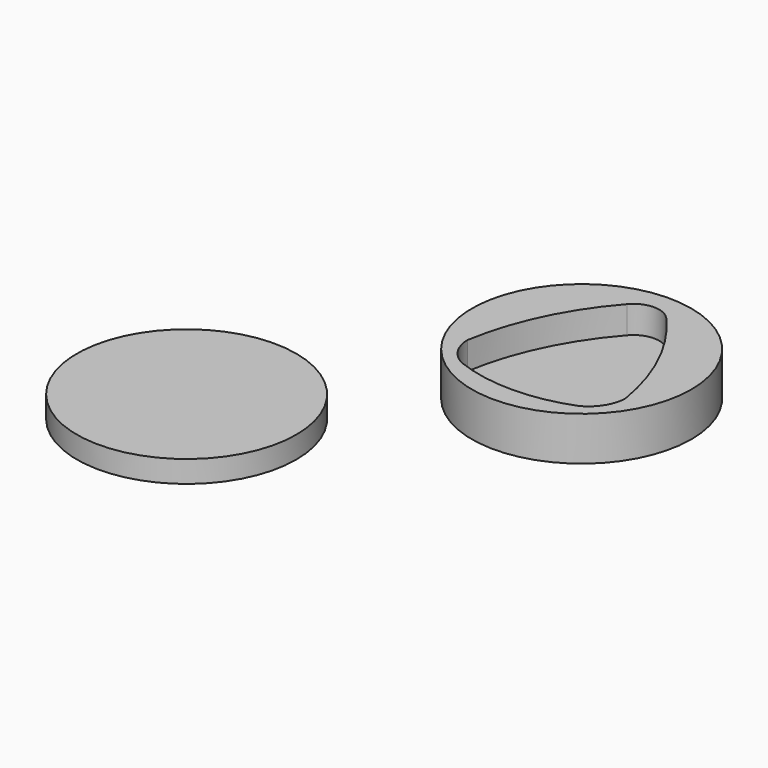
from build123d import *

# Parameters (mm, degrees)
SKETCH003_R  = 20
PAD003_DEPTH = 4
PAD001_DEPTH = 5
SKETCH002_R  = 20
PAD002_DEPTH = 8


with BuildPart() as up:
    # Sketch003 → Pad003 (new body)
    with BuildSketch(Plane.XY):
        Circle(SKETCH003_R)
    extrude(amount=PAD003_DEPTH)


with BuildPart() as up_1:
    # Body003 placement: moved
    add(up.part.moved(Location((-20, -20, -8))))


with BuildPart() as body001:
    # Sketch001 → Pad001 (new body)
    with BuildSketch(Plane.XY):
        with BuildLine():
            ThreePointArc((3.6, 14.8), (0, 16.48615), (-3.6, 14.8))
            ThreePointArc((-3.6, 14.8), (-10.607062, 4.16124), (-14.4, -8))
            ThreePointArc((-14.4, -8), (-13.345547, -11.535513), (-10.6, -14))
            ThreePointArc((-10.6, -14), (0, -15.982852), (10.6, -14))
            ThreePointArc((10.6, -14), (13.345547, -11.535513), (14.4, -8))
            ThreePointArc((14.4, -8), (10.607062, 4.16124), (3.6, 14.8))
        make_face()
    extrude(amount=PAD001_DEPTH)


with BuildPart() as body001_1:
    # Body001 placement: moved
    add(body001.part.moved(Location((0, 0, -5))))


with BuildPart() as fusion:
    # Sketch002 → Pad002 (new body)
    with BuildSketch(Plane.XY):
        Circle(SKETCH002_R)
    extrude(amount=PAD002_DEPTH)


with BuildPart() as fusion_1:
    # Body002 placement: moved
    add(fusion.part.moved(Location((0, 0, -8))))

    # Cut: cut Body001
    add(body001_1.part, mode=Mode.SUBTRACT)


with BuildPart() as fusion_2:
    # Cut placement: moved
    add(fusion_1.part.moved(Location((20, 20, 0))))

    # Fusion: union Up
    add(up_1.part)


solid = fusion_2.part
